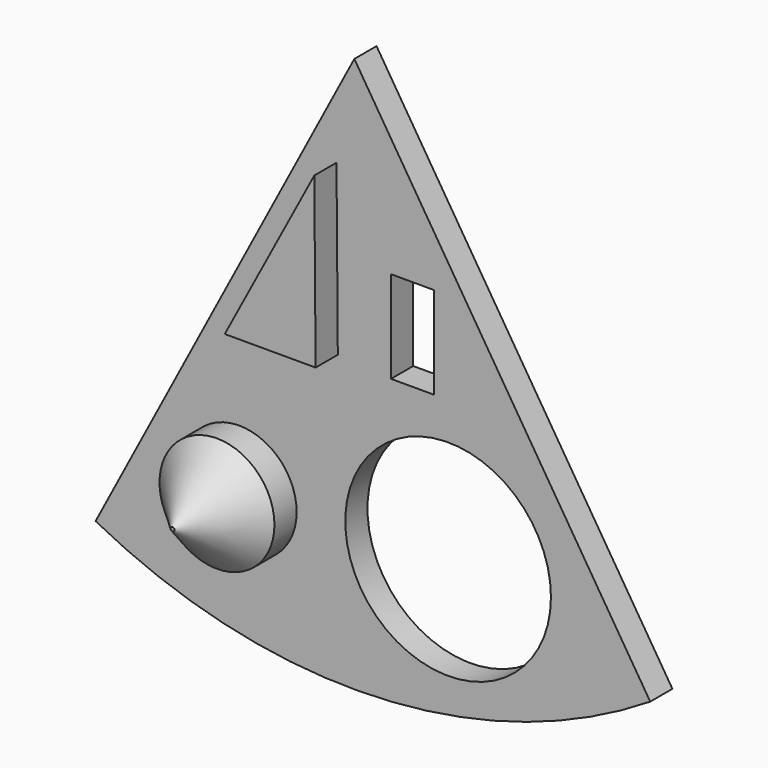
from build123d import *

# Parameters (mm, degrees)
F0_R     = 4.14107
F0_R_2   = 7.410606
F0_W     = 3.085942
F0_H     = 6.639451
F1_DEPTH = 2
F2_DEPTH = 4
F3_DEPTH = 8
F4_SIZE  = 4


with BuildPart() as f1:
    # F0 (on Front) → F1 (new body)
    with BuildSketch(Plane.XZ):
        with BuildLine():
            Line((21.322626, -13.430809), (0, 20.412146))
            Line((0, 20.412146), (-18.647546, -14.975267))
            ThreePointArc((-18.647546, -14.975267), (1.544458, -19.558026), (21.322626, -13.430809))
        make_face()
        with Locations((-8.298183, -9.686158)):
            Circle(F0_R, mode=Mode.SUBTRACT)
        with Locations((6.757477, -9.125078)):
            Circle(F0_R_2, mode=Mode.SUBTRACT)
        Polygon((-7.737102, 1.254911), (-1.284677, 13.411654), (-1.191163, 1.254911), align=None, mode=Mode.SUBTRACT)
        with Locations((4.185858, 4.294097)):
            Rectangle(F0_W, F0_H, mode=Mode.SUBTRACT)
    extrude(amount=F1_DEPTH)


with BuildPart() as f2:
    # F0 (on Front) → F2 (new body)
    with BuildSketch(Plane.XZ):
        Polygon((-1.191163, 1.254911), (-1.284677, 13.411654), (-7.737102, 1.254911), align=None)
    extrude(amount=F2_DEPTH)


with BuildPart() as f3:
    # F0 (on Front) → F3 (new body)
    with BuildSketch(Plane.XZ):
        with Locations((-8.298183, -9.686158)):
            Circle(F0_R)
    extrude(amount=F3_DEPTH)

    # F4
    f4_edges = [f3.edges().sort_by_distance(p)[0] for p in [
        (-12.439253, -8, -9.686158),
    ]]
    chamfer(f4_edges, length=F4_SIZE)


solid = Compound([f1.part, f2.part, f3.part])
